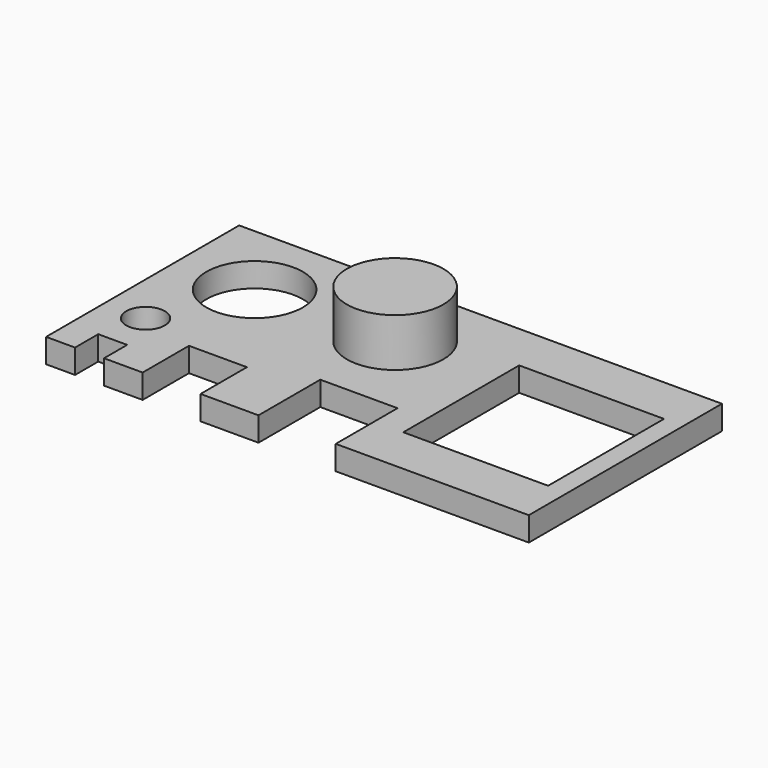
from build123d import *

# Parameters (mm, degrees)
F0_R     = 2
F0_R_2   = 5
F0_W     = 15
F0_H     = 15
F1_DEPTH = 2.5
F2_R     = 5
F3_DEPTH = 5


with BuildPart() as f1:
    # F0 (on Top) → F1 (new body)
    with BuildSketch(Plane.XY):
        Polygon((0, 25), (0, 0), (3, 0), (3, 3), (6, 3), (6, 0), (10, 0), (10, 6), (16, 6), (16, 0), (22, 0), (22, 8), (30, 8), (30, 0), (50, 0), (50, 25), align=None)
        with Locations((4.25116, 7.565503)):
            Circle(F0_R, mode=Mode.SUBTRACT)
        with Locations((8, 17)):
            Circle(F0_R_2, mode=Mode.SUBTRACT)
        with Locations((40.5, 12.5)):
            Rectangle(F0_W, F0_H, mode=Mode.SUBTRACT)
    extrude(amount=F1_DEPTH)

    # F2 (on face) → F3 (join)
    with BuildSketch(Plane.XY.offset(2.5)):
        with Locations((22.548001, 17)):
            Circle(F2_R)
    extrude(amount=F3_DEPTH)


solid = f1.part
